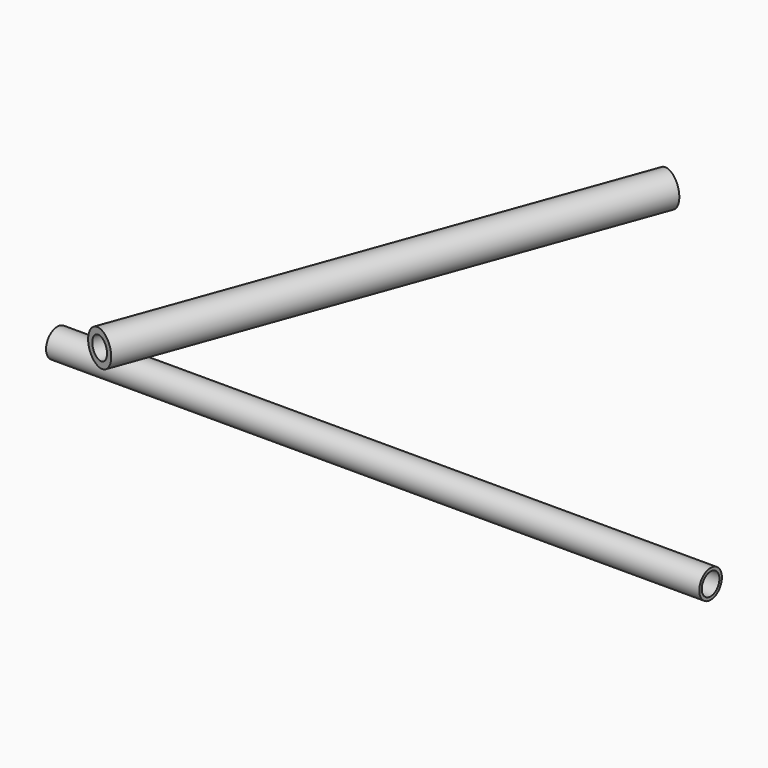
from build123d import *

# Parameters (mm, degrees)
F0_R     = 9
F0_R_2   = 7
F1_DEPTH = 415
F5_R     = 11
F5_R_2   = 7
F6_DEPTH = 330
F7_R     = 7
F8_DEPTH = 422.245019476


with BuildPart() as f1:
    # F0 (on Right) → F1 (new body)
    with BuildSketch(Plane.YZ):
        Circle(F0_R)
        Circle(F0_R_2, mode=Mode.SUBTRACT)
    extrude(amount=F1_DEPTH)

    # F5 (on offset) → F6 (join)
    with BuildSketch(Plane(origin=(-1.3846092047, -3.8041825246, 0), x_dir=(-0.9396926208, 0.3420201433, 0), z_dir=(0.3420201433, 0.9396926208, 0))):
        with Locations((-46.9846310393, 19)):
            Circle(F5_R)
        with Locations((-46.9846310393, 19)):
            Circle(F5_R_2, mode=Mode.SUBTRACT)
    extrude(amount=F6_DEPTH)

    # F7 (on face) → F8 (cut, through all)
    with BuildSketch(Plane(origin=(-1.3846092047, -3.8041825246, 0), x_dir=(0.9396926208, -0.3420201433, 0), z_dir=(-0.3420201433, -0.9396926208, 0))):
        with Locations((46.9846310393, 19)):
            Circle(F7_R)
    extrude(amount=-F8_DEPTH, mode=Mode.SUBTRACT)


solid = f1.part
